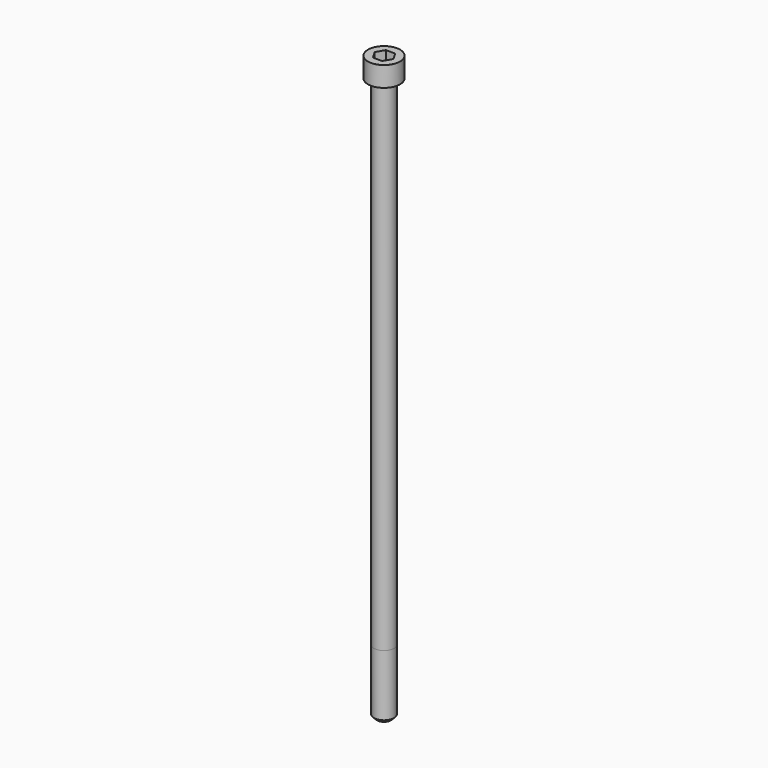
from build123d import *

# Parameters (mm, degrees)
POCKET_DEPTH = 8.07


with BuildPart() as part:
    # Sketch → Revolve (revolve)
    with BuildSketch(Plane.YZ):
        with BuildLine():
            Line((4.999, 0), (8, 0))
            Line((8, 0), (8, 9.97229))
            ThreePointArc((8, 9.97229), (7.991884, 9.991884), (7.97229, 10))
            Line((7.97229, 10), (0, 10))
            Line((0, -280), (0, 10))
            Line((3.5, -280), (0, -280))
            Line((5, -278.5), (3.5, -280))
            Line((5, -248), (5, -278.5))
            Line((4.999, 0), (5, -248))
        make_face()
    revolve(axis=Axis((0, 0, 0), (0, 0, 1)))

    # Sketch001 → Pocket (cut)
    with BuildSketch(Plane.XY.offset(10)):
        Polygon((4.659217, 0), (2.329608, 4.035), (-2.329608, 4.035), (-4.659217, 0), (-2.329608, -4.035), (2.329608, -4.035), align=None)
    extrude(amount=-POCKET_DEPTH, mode=Mode.SUBTRACT)


solid = part.part
